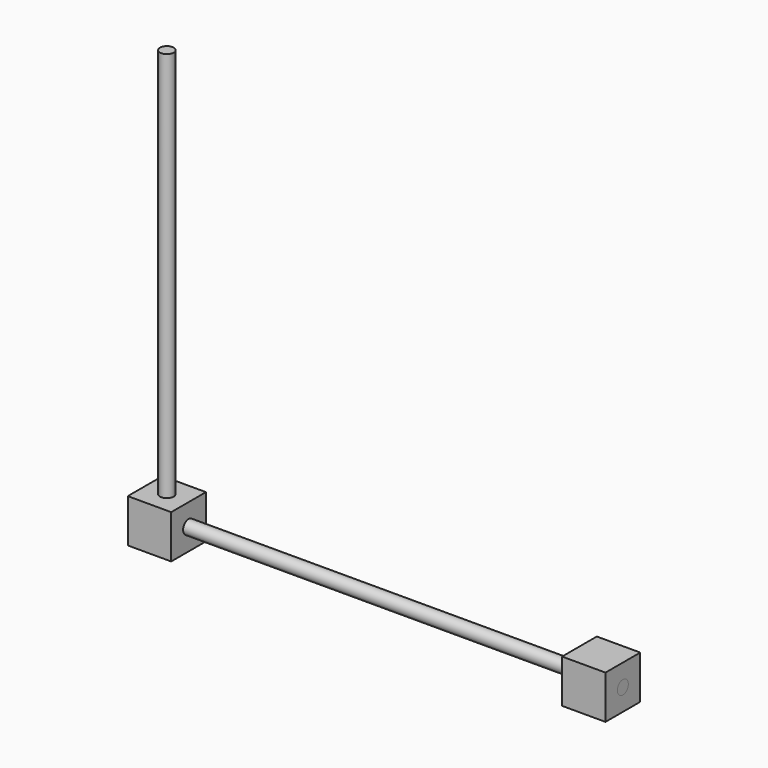
from build123d import *

# Parameters (mm, degrees)
F0_R     = 4
F1_DEPTH = 254
F2_W     = 25.4
F2_H     = 25.4
F2_R     = 4
F3_DEPTH = 25.4
F4_R     = 4
F5_DEPTH = 254
F6_W     = 25.4
F6_H     = 25.4
F6_R     = 4
F7_DEPTH = 25.4


with BuildPart() as f1:
    # F0 (on Top) → F1 (new body)
    with BuildSketch(Plane.XY):
        Circle(F0_R)
        Circle(F0_R)
    extrude(amount=F1_DEPTH)


with BuildPart() as f3:
    # F2 (on Top) → F3 (new body)
    with BuildSketch(Plane.XY):
        Rectangle(F2_W, F2_H)
        Circle(F2_R, mode=Mode.SUBTRACT)
    extrude(amount=F3_DEPTH)

    # F4 (on face) → F5 (join)
    with BuildSketch(Plane.YZ.offset(12.7)):
        with Locations((0, 12.7)):
            Circle(F4_R)
    extrude(amount=F5_DEPTH)


with BuildPart() as f7:
    # F6 (on face) → F7 (new body)
    with BuildSketch(Plane.YZ.offset(266.7)):
        with Locations((0, 12.7)):
            Rectangle(F6_W, F6_H)
        with Locations((0, 12.7)):
            Circle(F6_R, mode=Mode.SUBTRACT)
    extrude(amount=-F7_DEPTH)


solid = Compound([f1.part, f3.part, f7.part])
